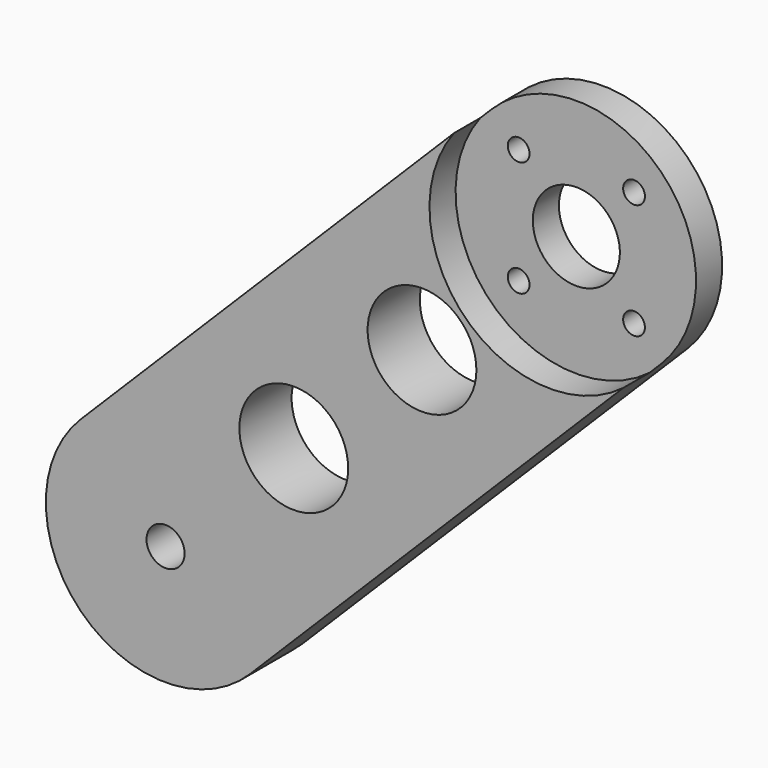
from build123d import *

# Parameters (mm, degrees)
CYLINDER020_R             = 11.1
CYLINDER020_DEPTH         = 26
CYLINDER019_R             = 4
CYLINDER019_DEPTH         = 43
CYLINDER021_R             = 1
CYLINDER021_DEPTH         = 31
CYLINDER024_R             = 1
CYLINDER024_DEPTH         = 31
CYLINDER023_R             = 1
CYLINDER023_DEPTH         = 31
CYLINDER022_R             = 1
CYLINDER022_DEPTH         = 31
FUSION002_ROLL_ANGLE      = -90
FUSION003_PLACEMENT_ANGLE = 180
SKETCH_R                  = 5
SKETCH_R_2                = 1.75
PAD_DEPTH                 = 6
CUT_PITCH_ANGLE           = 90
CLONE017_PITCH_ANGLE      = -45


with BuildPart() as cylinder141:
    # Cylinder020 → Cylinder020 (new body)
    with BuildSketch(Plane(origin=(-3, 71, 73), x_dir=(0, 0, 1), z_dir=(0, -1, 0))):
        Circle(CYLINDER020_R)
    extrude(amount=CYLINDER020_DEPTH)


with BuildPart() as fusion001:
    # Cylinder019 → Cylinder019 (new body)
    with BuildSketch(Plane(origin=(-3, 66, 73), x_dir=(0, 0, 1), z_dir=(0, -1, 0))):
        Circle(CYLINDER019_R)
    extrude(amount=CYLINDER019_DEPTH)

    # Fusion001: union Cylinder141
    add(cylinder141.part)


with BuildPart() as cylinder096:
    # Cylinder021 → Cylinder021 (new body)
    with BuildSketch(Plane(origin=(-7.5, -11, 132), x_dir=(1, 0, 0), z_dir=(0, 0, 1))):
        Circle(CYLINDER021_R)
    extrude(amount=CYLINDER021_DEPTH)


with BuildPart() as cylinder146:
    # Cylinder024 → Cylinder024 (new body)
    with BuildSketch(Plane(origin=(0, -3.5, 132), x_dir=(1, 0, 0), z_dir=(0, 0, 1))):
        Circle(CYLINDER024_R)
    extrude(amount=CYLINDER024_DEPTH)


with BuildPart() as cylinder145:
    # Cylinder023 → Cylinder023 (new body)
    with BuildSketch(Plane(origin=(7.5, -11, 132), x_dir=(1, 0, 0), z_dir=(0, 0, 1))):
        Circle(CYLINDER023_R)
    extrude(amount=CYLINDER023_DEPTH)


with BuildPart() as fusion003:
    # Cylinder022 → Cylinder022 (new body)
    with BuildSketch(Plane(origin=(0, -18.5, 132), x_dir=(1, 0, 0), z_dir=(0, 0, 1))):
        Circle(CYLINDER022_R)
    extrude(amount=CYLINDER022_DEPTH)

    # Fusion002: union Cylinder096, Cylinder146, Cylinder145
    add(cylinder096.part)
    add(cylinder146.part)
    add(cylinder145.part)


with BuildPart() as fusion003_1:
    # Fusion002 roll: moved
    add(fusion003.part.rotate(Axis((0, 0, 0), (1, 0, 0)), FUSION002_ROLL_ANGLE))


with BuildPart() as fusion003_2:
    # Fusion002 placement: moved
    add(fusion003_1.part.moved(Location((-3, -97.5, 62))))

    # Fusion003: union Fusion001
    add(fusion001.part)


with BuildPart() as fusion003_3:
    # Fusion003 placement: moved
    add(fusion003_2.part.moved(Location((-0.5, 88, -87))).rotate(Axis((-0.5, 88, -87), (0, 0, 1)), FUSION003_PLACEMENT_ANGLE))


with BuildPart() as clone_of_cut001:
    # Sketch → Pad (new body)
    with BuildSketch(Plane(origin=(-11.5, 40, -16.5), x_dir=(0, 0, -1), z_dir=(0, 1, 0))):
        with BuildLine():
            Line((-2.5, -3), (47.5, -3))
            ThreePointArc((47.5, -25), (58.5, -14), (47.5, -3))
            Line((-2.5, -25), (47.5, -25))
            ThreePointArc((-2.5, -3), (-13.5, -14), (-2.5, -25))
        make_face()
        with Locations((14.166667, -14)):
            Circle(SKETCH_R, mode=Mode.SUBTRACT)
        with Locations((30.833333, -14)):
            Circle(SKETCH_R, mode=Mode.SUBTRACT)
        with Locations((47.5, -14)):
            Circle(SKETCH_R_2, mode=Mode.SUBTRACT)
    extrude(amount=PAD_DEPTH)

    # Cut: cut Fusion003
    add(fusion003_3.part, mode=Mode.SUBTRACT)


with BuildPart() as clone_of_cut001_1:
    # Cut pitch: moved
    add(clone_of_cut001.part.rotate(Axis((0, 0, 0), (0, 1, 0)), CUT_PITCH_ANGLE))


with BuildPart() as clone_of_cut001_2:
    # Cut placement: moved
    add(clone_of_cut001_1.part.moved(Location((16.5, -87, -15))))


with BuildPart() as clone_of_cut001_3:
    # Clone017 pitch: moved
    add(clone_of_cut001_2.part.rotate(Axis((0, 0, 0), (0, 1, 0)), CLONE017_PITCH_ANGLE))


with BuildPart() as clone_of_cut001_4:
    # Clone017 placement: moved
    add(clone_of_cut001_3.part.moved(Location((-11.642136, 0, -6.893398))))


solid = clone_of_cut001_4.part
